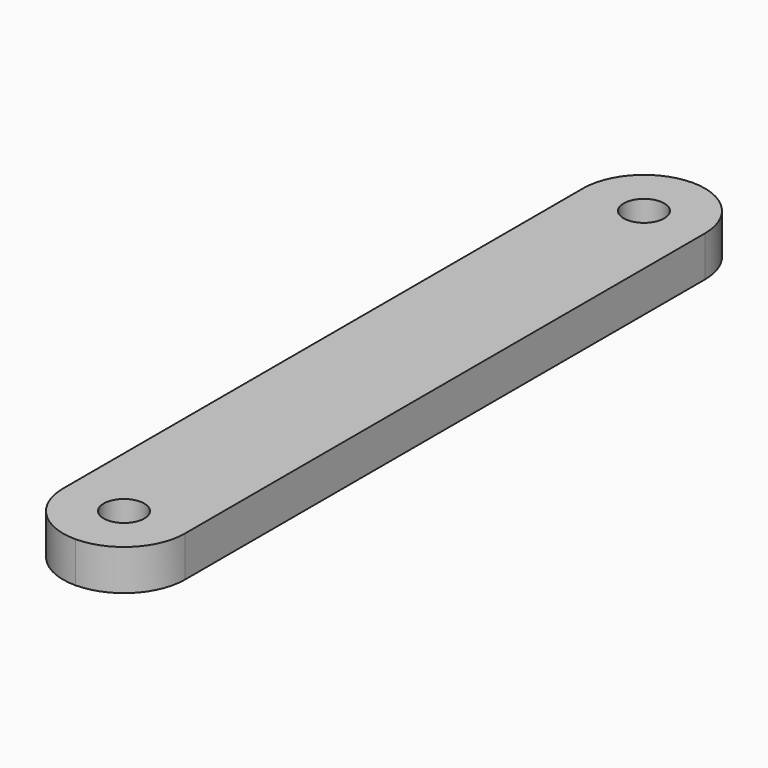
from build123d import *

# Parameters (mm, degrees)
F0_R     = 0.25
F1_DEPTH = 0.5


with BuildPart() as f1:
    # F0 (on Top) → F1 (new body)
    with BuildSketch(Plane.XY):
        with BuildLine():
            Line((0.75, -4), (0.75, 4))
            ThreePointArc((0.75, 4), (0.53033, 4.53033), (0, 4.75))
            ThreePointArc((0, 4.75), (-0.53033, 4.53033), (-0.75, 4))
            Line((-0.75, 4), (-0.75, -4))
            ThreePointArc((-0.75, -4), (-0.53033, -4.53033), (0, -4.75))
            ThreePointArc((0, -4.75), (0.53033, -4.53033), (0.75, -4))
        make_face()
        with Locations((0, -4)):
            Circle(F0_R, mode=Mode.SUBTRACT)
        with Locations((0, 4)):
            Circle(F0_R, mode=Mode.SUBTRACT)
    extrude(amount=F1_DEPTH)


solid = f1.part
